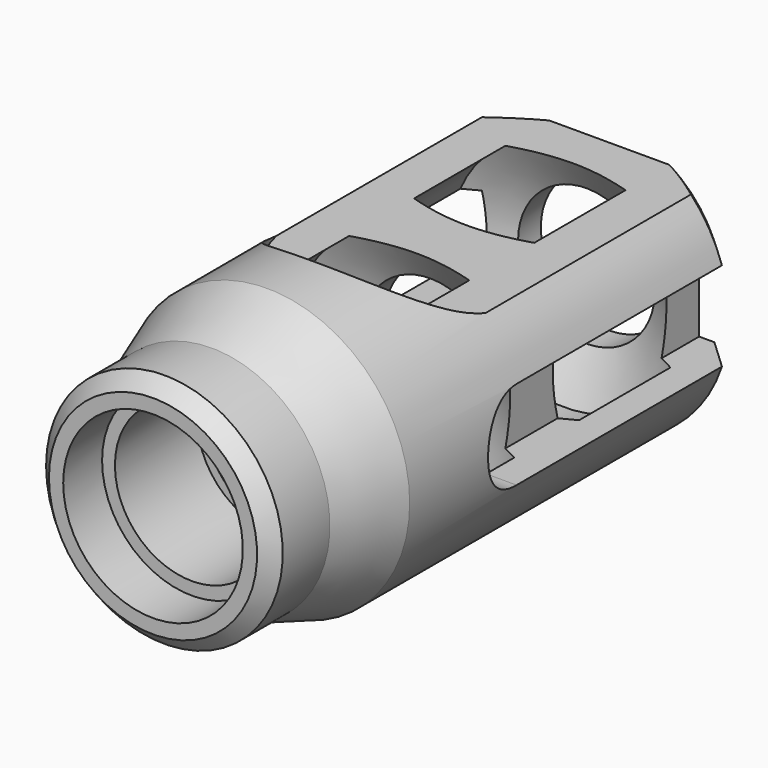
from build123d import *

# Parameters (mm, degrees)
F3_DEPTH  = 25.4
F4_W      = 12.7
F4_H      = 7.9375
F5_DEPTH  = 25.4
F6_SIZE   = 2.54
F7_R      = 9.525
F8_DEPTH  = 25.4
F9_SIZE   = 1.27
F10_R     = 3.96875
F11_DEPTH = 25.4


with BuildPart() as f1:
    # F0 (on Top) → F1 (revolve)
    with BuildSketch(Plane.XY):
        Polygon((-12.7, 8.3694059759), (-10.541, 2.1945910865), (-10.541, -4.3305940241), (-8.001, -4.3305940241), (-8.001, 0), (-6.858, 0), (-6.858, 9.144), (-6.096, 9.144), (-6.096, 11.684), (-10.16, 14.030351494), (-10.16, 24.190351494), (-6.096, 26.536702988), (-6.096, 29.076702988), (-10.16, 31.423054482), (-10.16, 41.583054482), (-6.096, 43.9294059759), (-6.096, 46.4694059759), (-12.7, 46.4694059759), align=None)
    revolve(axis=Axis((0, 65.4240736527, 0), (0, 1, 0)))

    # F2 (on face) → F3 (cut)
    with BuildSketch(Plane(origin=(0, 46.4694059759, 0), x_dir=(-1, 0, 0), z_dir=(0, 1, 0))):
        Polygon((-25.4, 8.636), (0, 8.636), (25.4, 8.636), (25.4, 25.7254446054), (-25.4, 25.7254446054), align=None)
    extrude(amount=-F3_DEPTH, mode=Mode.SUBTRACT)

    # F4 (on face) → F5 (cut)
    with BuildSketch(Plane(origin=(0, 46.4694059759, 0), x_dir=(-1, 0, 0), z_dir=(0, 1, 0))):
        Polygon((-8.001, 0), (-8.001, 3.96875), (-20.701, 3.96875), (-20.701, -3.96875), (-8.001, -3.96875), align=None)
        with Locations((14.351, 0)):
            Rectangle(F4_W, F4_H)
    extrude(amount=-F5_DEPTH, mode=Mode.SUBTRACT)

    # F6
    f6_edges = [f1.edges().sort_by_distance(p)[0] for p in [
        (10.939674, 46.469406, 6.450855),
        (0, 46.469406, -12.7),
        (-10.939674, 46.469406, 6.450855),
    ]]
    chamfer(f6_edges, length=F6_SIZE)

    # F7 (on face) → F8 (cut)
    with BuildSketch(Plane.XY.offset(8.636)):
        with Locations((0, 23.0734321734)):
            Circle(F7_R)
    extrude(amount=F8_DEPTH, mode=Mode.SUBTRACT)

    # F9
    f9_edges = [f1.edges().sort_by_distance(p)[0] for p in [
        (10.541, -4.330594, 0),
    ]]
    chamfer(f9_edges, length=F9_SIZE)

    # F10 (on face) → F11 (cut, symmetric)
    with BuildSketch(Plane.YZ.offset(8.001)):
        with Locations((21.0694059759, 0)):
            Circle(F10_R)
    extrude(amount=F11_DEPTH, both=True, mode=Mode.SUBTRACT)


solid = f1.part
